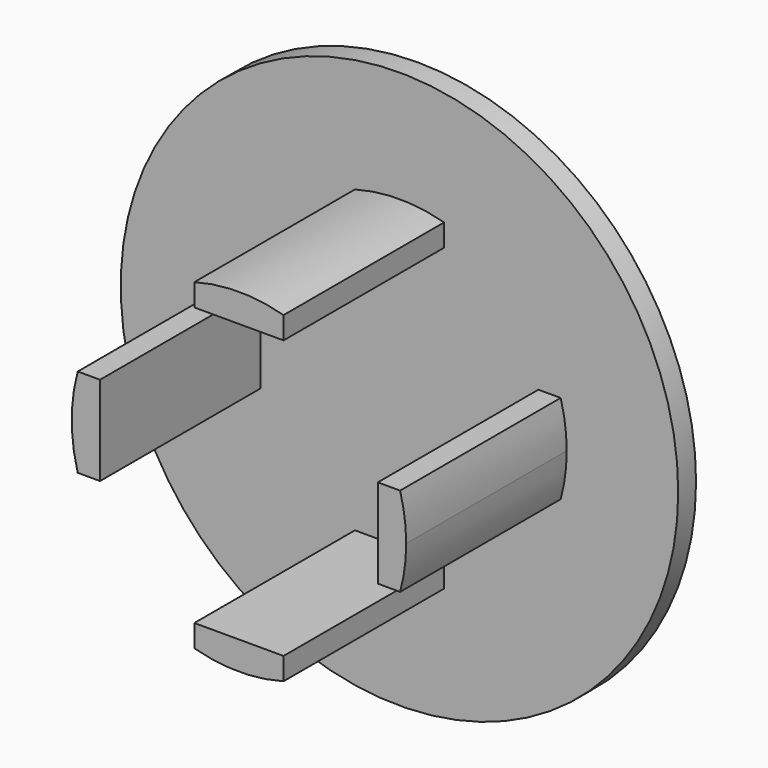
from build123d import *

# Parameters (mm, degrees)
F0_W      = 5.08
F0_H      = 1.27
F0_W_2    = 1.27
F0_H_2    = 5.08
F1_DEPTH  = 12.7
F3_FACE_R = 15.875
F4_DEPTH  = 1.27


with BuildPart() as f1:
    # F0 (on Front) → F1 (new body)
    with BuildSketch(Plane.XZ):
        with Locations((0, 8.545089)):
            Rectangle(F0_W, F0_H)
        with BuildLine():
            Line((-2.54, 9.180089), (2.54, 9.180089))
            ThreePointArc((2.54, 9.180089), (0, 9.525), (-2.54, 9.180089))
        make_face()
        with Locations((-8.545089, 0)):
            Rectangle(F0_W_2, F0_H_2)
        with BuildLine():
            Line((-9.180089, -2.54), (-9.180089, 2.54))
            ThreePointArc((-9.180089, 2.54), (-9.525, 0), (-9.180089, -2.54))
        make_face()
        with BuildLine():
            ThreePointArc((-2.54, -9.180089), (0, -9.525), (2.54, -9.180089))
            Line((2.54, -9.180089), (-2.54, -9.180089))
        make_face()
        with Locations((0, -8.545089)):
            Rectangle(F0_W, F0_H)
        with Locations((8.545089, 0)):
            Rectangle(F0_W_2, F0_H_2)
        with BuildLine():
            ThreePointArc((9.180089, -2.54), (9.438378, -1.281656), (9.525, 0))
            ThreePointArc((9.525, 0), (9.438378, 1.281656), (9.180089, 2.54))
            Line((9.180089, 2.54), (9.180089, -2.54))
        make_face()
    extrude(amount=F1_DEPTH)

    # F2 (on Right) → F3 (revolve)
    with BuildSketch(Plane.YZ):
        with BuildLine():
            Line((0, 15.875), (0, 0))
            Line((0, 0), (5.08, 0))
            ThreePointArc((5.08, 0), (3.790842, 8.33777), (0, 15.875))
        make_face()
    revolve(axis=Axis((0, 2.54, 0), (0, 1, 0)))

    # F3_face (on face) → F4 (join)
    with BuildSketch(Plane.XZ):
        Circle(F3_FACE_R)
        with BuildLine():
            Line((-7.910089, 2.54), (-7.910089, -2.54))
            Line((-7.910089, -2.54), (-9.180089, -2.54))
            ThreePointArc((-9.180089, -2.54), (-9.525, 0), (-9.180089, 2.54))
            Line((-9.180089, 2.54), (-7.910089, 2.54))
        make_face(mode=Mode.SUBTRACT)
        with BuildLine():
            Line((-2.54, -9.180089), (-2.54, -7.910089))
            Line((-2.54, -7.910089), (2.54, -7.910089))
            Line((2.54, -7.910089), (2.54, -9.180089))
            ThreePointArc((2.54, -9.180089), (0, -9.525), (-2.54, -9.180089))
        make_face(mode=Mode.SUBTRACT)
        with BuildLine():
            Line((2.54, 7.910089), (-2.54, 7.910089))
            Line((-2.54, 7.910089), (-2.54, 9.180089))
            ThreePointArc((-2.54, 9.180089), (0, 9.525), (2.54, 9.180089))
            Line((2.54, 9.180089), (2.54, 7.910089))
        make_face(mode=Mode.SUBTRACT)
        with BuildLine():
            ThreePointArc((9.180089, 2.54), (9.525, 0), (9.180089, -2.54))
            Line((9.180089, -2.54), (7.910089, -2.54))
            Line((7.910089, -2.54), (7.910089, 2.54))
            Line((7.910089, 2.54), (9.180089, 2.54))
        make_face(mode=Mode.SUBTRACT)
    extrude(amount=F4_DEPTH)


solid = f1.part
